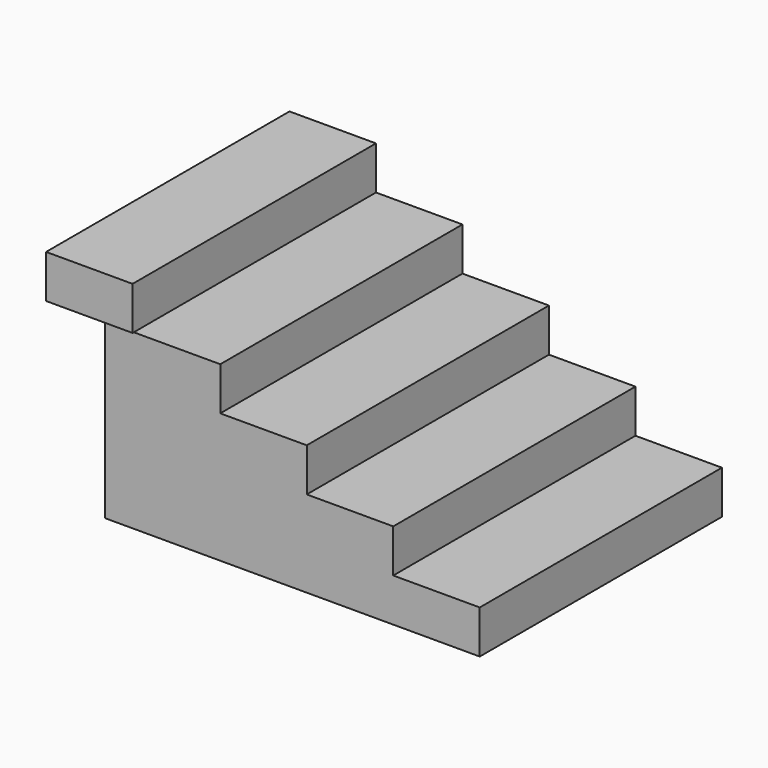
from build123d import *

# Parameters (mm, degrees)
F0_W     = 1320.8
F0_H     = 1066.8
F1_DEPTH = 152.4
F2_W     = 1016
F2_H     = 1066.8
F3_DEPTH = 152.4
F4_W     = 711.2
F4_H     = 1066.8
F5_DEPTH = 152.4
F6_W     = 406.4
F6_H     = 1066.8
F7_DEPTH = 152.4
F9_DEPTH = 152.4


with BuildPart() as f1:
    # F0 (on Top) → F1 (new body)
    with BuildSketch(Plane.XY):
        with Locations((6.8740844727, 39.3722309107)):
            Rectangle(F0_W, F0_H)
    extrude(amount=F1_DEPTH)

    # F2 (on face) → F3 (join)
    with BuildSketch(Plane.XY.offset(152.4)):
        with Locations((-145.5259155273, 39.3722309107)):
            Rectangle(F2_W, F2_H)
    extrude(amount=F3_DEPTH)

    # F4 (on face) → F5 (join)
    with BuildSketch(Plane.XY.offset(304.8)):
        with Locations((-297.9259155273, 39.3722309107)):
            Rectangle(F4_W, F4_H)
    extrude(amount=F5_DEPTH)

    # F6 (on face) → F7 (join)
    with BuildSketch(Plane.XY.offset(457.2)):
        with Locations((-450.3259155273, 39.3722309107)):
            Rectangle(F6_W, F6_H)
    extrude(amount=F7_DEPTH)

    # F8 (on face) → F9 (join)
    with BuildSketch(Plane.XY.offset(609.6)):
        Polygon((-551.9259155273, -499.3119239807), (-551.9259155273, 572.7722309107), (-653.5259155273, 572.7722309107), (-856.7259155273, 572.7722309107), (-856.7259155273, -499.3119239807), align=None)
    extrude(amount=F9_DEPTH)


solid = f1.part
